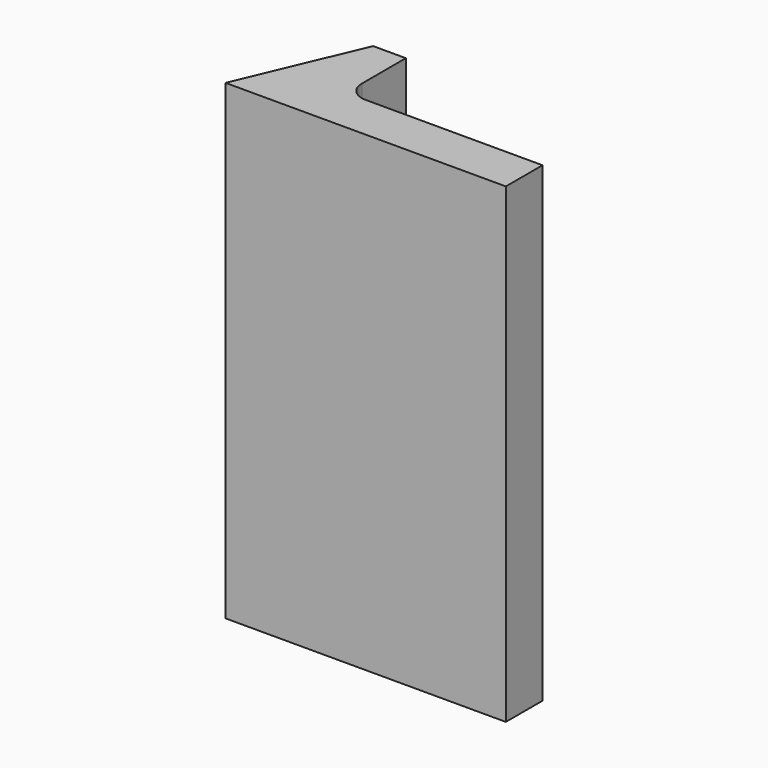
from build123d import *

# Parameters (mm, degrees)
PAD_DEPTH = 72


with BuildPart() as part:
    # Sketch → Pad (new body)
    with BuildSketch(Plane.XY):
        with BuildLine():
            Line((0, 0), (7.814623, 18.410097))
            Line((7.814623, 18.410097), (12.814623, 18.410097))
            Line((12.814623, 18.410097), (12.814623, 10))
            ThreePointArc((12.814623, 10), (13.693302, 7.87868), (15.814623, 7))
            Line((15.814623, 7), (42.814623, 7))
            Line((42.814623, 7), (42.814623, 0))
            Line((42.814623, 0), (0, 0))
        make_face()
    extrude(amount=PAD_DEPTH)


solid = part.part
